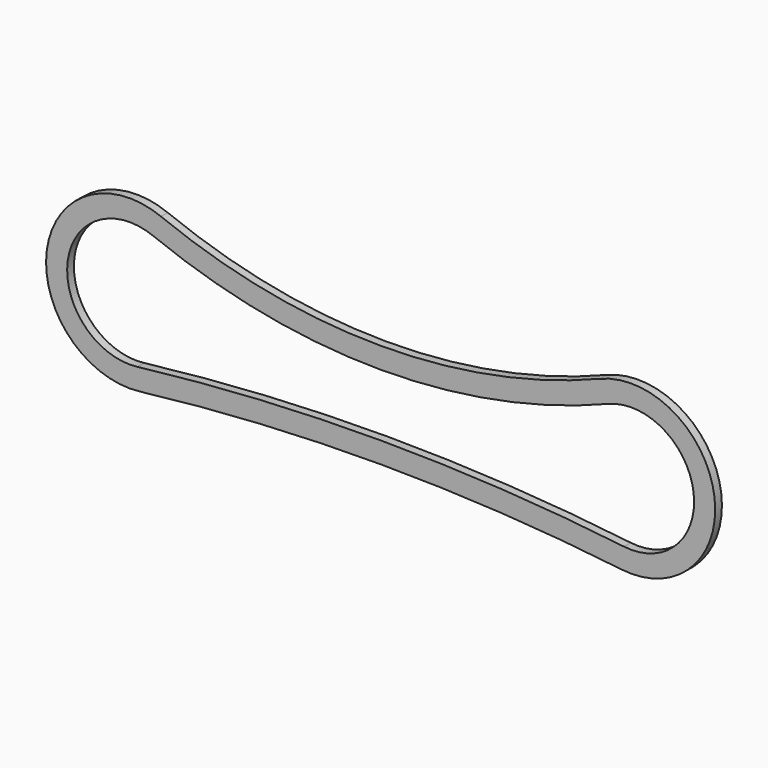
from build123d import *

# Parameters (mm, degrees)
F1_DEPTH = 20


with BuildPart() as f1:
    # F0 (on Front) → F1 (new body)
    with BuildSketch(Plane.XZ):
        with BuildLine():
            ThreePointArc((515.887824, 184.479399), (-5.178885, 83.952454), (-526.245594, 184.479399))
            ThreePointArc((-526.245594, 184.479399), (-797.205456, 26.06358), (-576.7568, -197.358015))
            ThreePointArc((-576.7568, -197.358015), (-5.178885, -163.559701), (566.399031, -197.358015))
            ThreePointArc((566.399031, -197.358015), (786.847687, 26.06358), (515.887824, 184.479399))
        make_face()
        with BuildLine():
            ThreePointArc((-582.649356, -147.706451), (-747.637277, 19.506473), (-544.845819, 138.067852))
            ThreePointArc((-544.845819, 138.067852), (-5.178885, 33.952454), (534.488049, 138.067852))
            ThreePointArc((534.488049, 138.067852), (737.279508, 19.506473), (572.291587, -147.706451))
            ThreePointArc((572.291587, -147.706451), (-5.178885, -113.559701), (-582.649356, -147.706451))
        make_face(mode=Mode.SUBTRACT)
    extrude(amount=F1_DEPTH)


solid = f1.part
